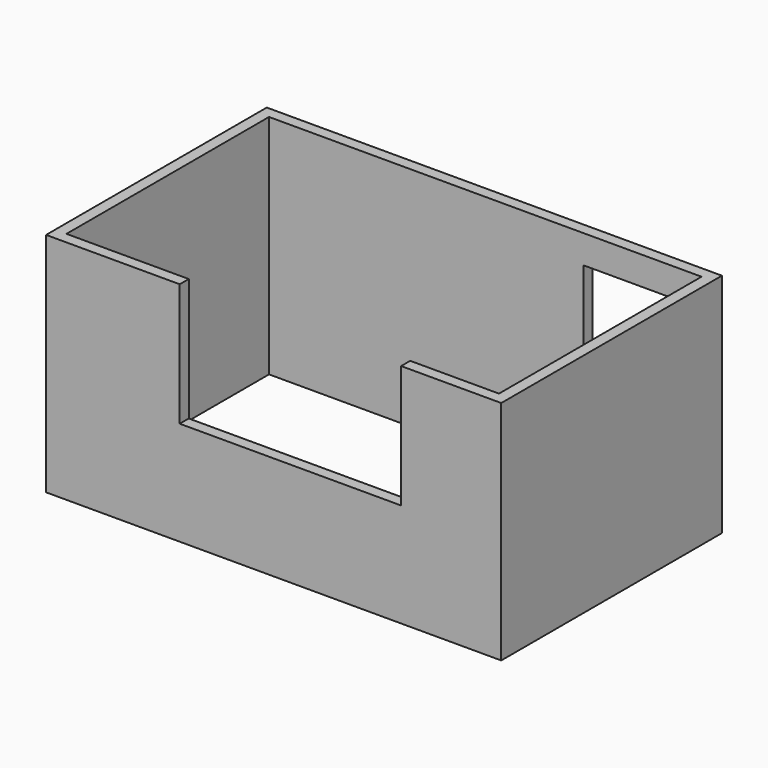
from build123d import *

# Parameters (mm, degrees)
F0_W     = 4820
F0_H     = 2921
F1_DEPTH = 2400
F2_W     = 4580
F2_H     = 2681
F3_DEPTH = 2400.001
F4_W     = 2344.874328
F4_H     = 1300
F5_DEPTH = 120
F6_W     = 1100
F6_H     = 2100
F7_DEPTH = 120


with BuildPart() as f1:
    # F0 (on Top) → F1 (new body)
    with BuildSketch(Plane.XY):
        with Locations((0.429004, -39.5)):
            Rectangle(F0_W, F0_H)
    extrude(amount=F1_DEPTH)

    # F2 (on face) → F3 (cut, through all)
    with BuildSketch(Plane.XY.offset(2400)):
        with Locations((0.429004, -39.5)):
            Rectangle(F2_W, F2_H)
    extrude(amount=-F3_DEPTH, mode=Mode.SUBTRACT)

    # F4 (on face) → F5 (cut, through all)
    with BuildSketch(Plane.XZ.offset(1500)):
        with Locations((177.99184, 1750)):
            Rectangle(F4_W, F4_H)
    extrude(amount=-F5_DEPTH, mode=Mode.SUBTRACT)

    # F6 (on face) → F7 (cut, through all)
    with BuildSketch(Plane.XZ.offset(-1301)):
        with Locations((1590.429004, 1050)):
            Rectangle(F6_W, F6_H)
    extrude(amount=-F7_DEPTH, mode=Mode.SUBTRACT)


solid = f1.part
